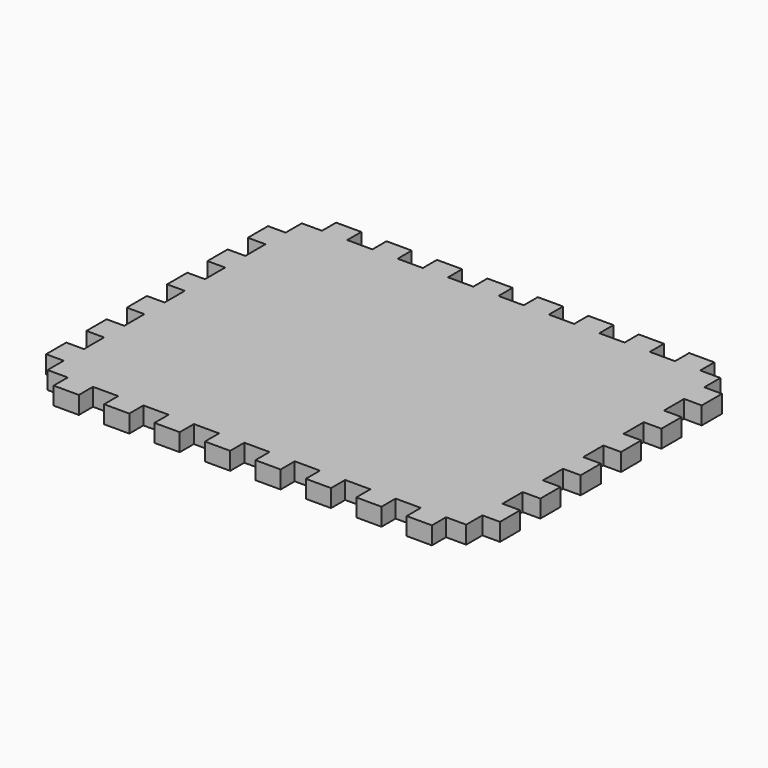
from build123d import *

# Parameters (mm, degrees)
F1_DEPTH = 8.89


with BuildPart() as f1:
    # F0 (on Top) → F1 (new body)
    with BuildSketch(Plane.XY):
        Polygon((31.75, 0), (19.05, 0), (19.05, -8.89), (8.89, -8.89), (8.89, -19.05), (0, -19.05), (0, -31.75), (8.89, -31.75), (8.89, -44.45), (0, -44.45), (0, -57.15), (8.89, -57.15), (8.89, -69.85), (0, -69.85), (0, -82.55), (8.89, -82.55), (8.89, -95.25), (0, -95.25), (0, -107.95), (8.89, -107.95), (8.89, -120.65), (0, -120.65), (0, -133.35), (8.89, -133.35), (8.89, -146.05), (0, -146.05), (0, -158.75), (8.89, -158.75), (8.89, -168.91), (19.05, -168.91), (19.05, -177.8), (31.75, -177.8), (31.75, -168.91), (44.45, -168.91), (44.45, -177.8), (57.15, -177.8), (57.15, -168.91), (69.85, -168.91), (69.85, -177.8), (82.55, -177.8), (82.55, -168.91), (95.25, -168.91), (95.25, -177.8), (107.95, -177.8), (107.95, -168.91), (120.65, -168.91), (120.65, -177.8), (133.35, -177.8), (133.35, -168.91), (146.05, -168.91), (146.05, -177.8), (158.75, -177.8), (158.75, -168.91), (171.45, -168.91), (171.45, -177.8), (184.15, -177.8), (184.15, -168.91), (196.85, -168.91), (196.85, -177.8), (209.55, -177.8), (209.55, -168.91), (219.71, -168.91), (219.71, -158.75), (228.6, -158.75), (228.6, -146.05), (219.71, -146.05), (219.71, -133.35), (228.6, -133.35), (228.6, -120.65), (219.71, -120.65), (219.71, -107.95), (228.6, -107.95), (228.6, -95.25), (219.71, -95.25), (219.71, -82.55), (228.6, -82.55), (228.6, -69.85), (219.71, -69.85), (219.71, -57.15), (228.6, -57.15), (228.6, -44.45), (219.71, -44.45), (219.71, -31.75), (228.6, -31.75), (228.6, -19.05), (219.71, -19.05), (219.71, -8.89), (209.55, -8.89), (209.55, 0), (196.85, 0), (196.85, -8.89), (184.15, -8.89), (184.15, 0), (171.45, 0), (171.45, -8.89), (158.75, -8.89), (158.75, 0), (146.05, 0), (146.05, -8.89), (133.35, -8.89), (133.35, 0), (120.65, 0), (120.65, -8.89), (107.95, -8.89), (107.95, 0), (95.25, 0), (95.25, -8.89), (82.55, -8.89), (82.55, 0), (69.85, 0), (69.85, -8.89), (57.15, -8.89), (57.15, 0), (44.45, 0), (44.45, -8.89), (31.75, -8.89), align=None)
    extrude(amount=F1_DEPTH)


solid = f1.part
